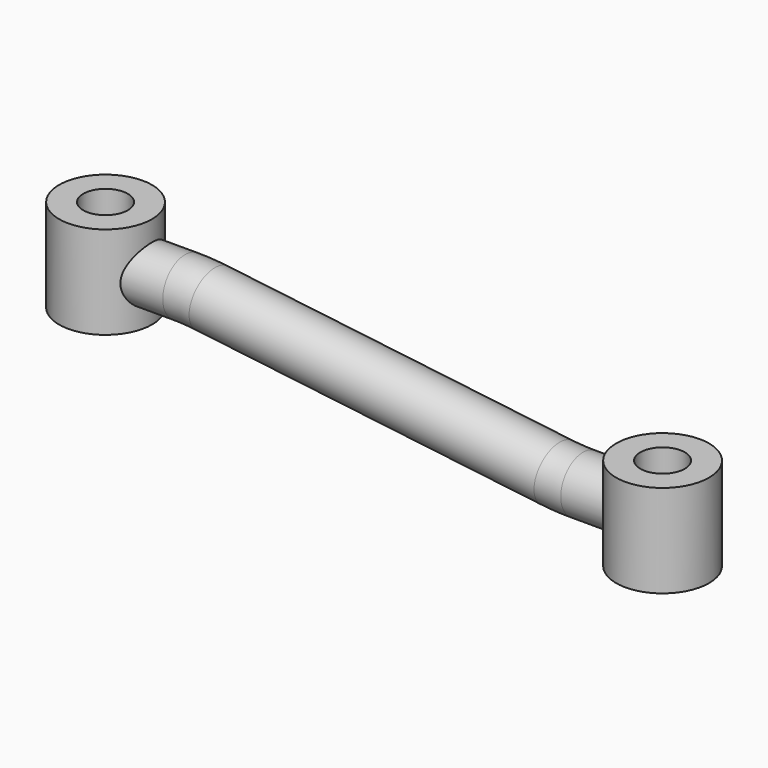
from build123d import *

# Parameters (mm, degrees)
F0_R     = 12.5
F0_R_2   = 6
F2_DEPTH = 25
F3_DEPTH = 12.5
F4_R     = 7.5
F6_R     = 6
F7_DEPTH = 25


with BuildPart() as f2:
    # F0 (on Top) → F2 (new body)
    with BuildSketch(Plane.XY):
        Circle(F0_R)
        Circle(F0_R_2, mode=Mode.SUBTRACT)
    extrude(amount=F2_DEPTH)



with BuildPart() as f3:
    # F0 (on Top) → F3 (new body, symmetric)
    with BuildSketch(Plane.XY):
        with Locations((150, 0)):
            Circle(F0_R)
        with Locations((150, 0)):
            Circle(F0_R_2, mode=Mode.SUBTRACT)
    extrude(amount=F3_DEPTH, both=True)


with BuildPart() as f2_1:
    add(f2.part)

    add(f3.part)  # F5 merges F3
    # F5: sweep along a path in F1
    with BuildLine(Plane.XZ) as f5_path:
        Line((0, 12), (21.4128675194, 12))
        ThreePointArc((21.4128675194, 12), (24.9936063711, 11.8930572711), (28.5615807565, 11.5726103092))
        Line((28.5615807565, 11.5726103092), (121.4384192435, 0.4273896908))
        ThreePointArc((121.4384192435, 0.4273896908), (125.0063936289, 0.1069427289), (128.5871324806, 0))
        Line((128.5871324806, 0), (150, 0))
    # F4 (on Right) → F5 (sweep)
    with BuildSketch(Plane.YZ):
        with Locations((0, 12)):
            Circle(F4_R)
    sweep(path=f5_path.line)

    # F6 (on Top) → F7 (cut, symmetric)
    with BuildSketch(Plane.XY):
        Circle(F6_R)
        with Locations((150, 0)):
            Circle(F6_R)
    extrude(amount=F7_DEPTH, both=True, mode=Mode.SUBTRACT)


solid = f2_1.part
